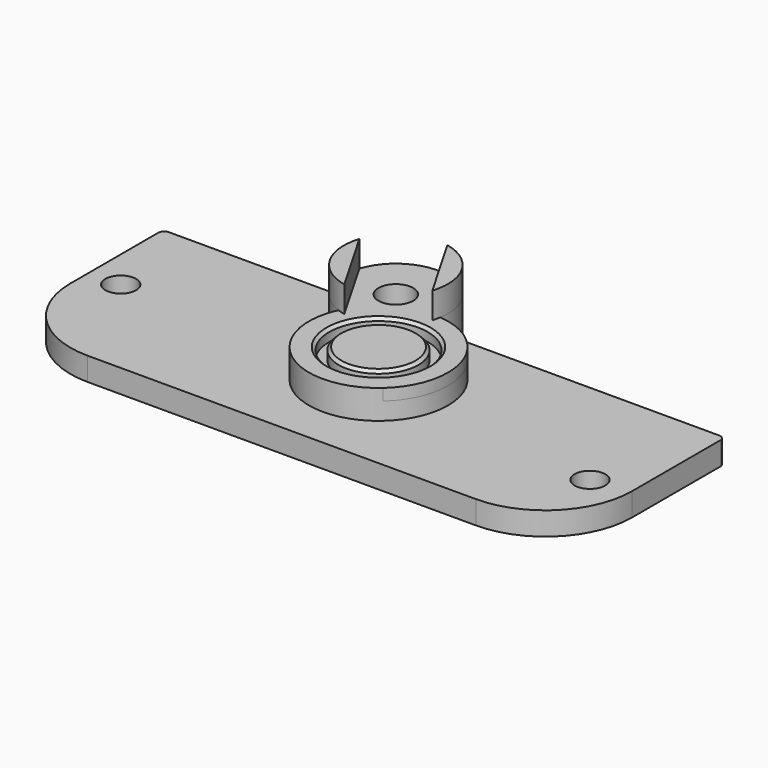
from build123d import *

# Parameters (mm, degrees)
SKETCH_R        = 12
SKETCH_R_2      = 8.5
PAD_DEPTH       = 2
SKETCH001_R     = 8.5
SKETCH001_R_2   = 3
PAD001_DEPTH    = 5
SKETCH002_R     = 8.5
PAD002_DEPTH    = 3
SKETCH003_R     = 6.9
PAD003_DEPTH    = 2
PAD004_DEPTH    = 4.5
SKETCH006_R     = 3
POCKET_DEPTH    = 5
SKETCH005_R     = 2.65
PAD005_DEPTH    = 4
POCKET001_DEPTH = 5
CHAMFER_SIZE    = 0.5
FILLET_R        = 1
FILLET001_R     = 15


with BuildPart() as part:
    # Sketch → Pad (new body)
    with BuildSketch(Plane.XY):
        Circle(SKETCH_R)
        Circle(SKETCH_R_2, mode=Mode.SUBTRACT)
    extrude(amount=PAD_DEPTH)

    # Sketch001 (on Face4 of Pad) → Pad001 (join)
    with BuildSketch(Plane.XY.offset(2)):
        with BuildLine():
            ThreePointArc((1.128054, 11.946861), (-12.25, 21.217622), (-10.910313, 4.996507))
            ThreePointArc((-10.910313, 4.996507), (6, -10.392305), (1.128054, 11.946861))
        make_face()
        Circle(SKETCH001_R, mode=Mode.SUBTRACT)
        with Locations((-7.75, 13.423394)):
            Circle(SKETCH001_R_2, mode=Mode.SUBTRACT)
    extrude(amount=-PAD001_DEPTH)

    # Sketch002 (on Face6 of Pad001) → Pad002 (join)
    with BuildSketch(Plane(origin=(0, 0, -3), x_dir=(1, 0, 0), z_dir=(0, 0, -1))):
        Circle(SKETCH002_R)
    extrude(amount=-PAD002_DEPTH)

    # Sketch003 (on Face11 of Pad002) → Pad003 (join)
    with BuildSketch(Plane.XY):
        Circle(SKETCH003_R)
    extrude(amount=PAD003_DEPTH)

    # Sketch004 (on Face7 of Pad003) → Pad004 (join)
    with BuildSketch(Plane.XY.offset(2)):
        with BuildLine():
            Line((-16.300254, 16.232869), (-9.59205, 4.613919))
            ThreePointArc((-16.300254, 16.232869), (-15.544229, 8.923394), (-9.59205, 4.613919))
        make_face()
        with BuildLine():
            Line((0.800254, 10.613919), (-5.90795, 22.232869))
            ThreePointArc((0.800254, 10.613919), (0.044229, 17.923394), (-5.90795, 22.232869))
        make_face()
    extrude(amount=PAD004_DEPTH)

    # Sketch006 → Pocket (cut)
    with BuildSketch(Plane.XY.offset(-3)):
        with Locations((-7.75, 13.423394)):
            Circle(SKETCH006_R)
    extrude(amount=-POCKET_DEPTH, mode=Mode.SUBTRACT)

    # Sketch005 (on Face19 of Pad004) → Pad005 (join)
    with BuildSketch(Plane.XY.offset(-3)):
        with BuildLine():
            ThreePointArc((0.873288, 16), (-7.75, 22.423394), (-16.373288, 16))
            Line((-16.373288, 16), (-50, 16))
            Line((-50, -19), (-50, 16))
            Line((-50, -19), (47, -19))
            Line((47, -19), (47, 16))
            Line((0.873288, 16), (47, 16))
        make_face()
        with Locations((-44.5, 0)):
            Circle(SKETCH005_R, mode=Mode.SUBTRACT)
        with Locations((40.5, -5)):
            Circle(SKETCH005_R, mode=Mode.SUBTRACT)
    extrude(amount=-PAD005_DEPTH)

    # Sketch008 (on Face24 of Pad005) → Pocket001 (cut)
    with BuildSketch(Plane(origin=(0, 0, -7), x_dir=(1, 0, 0), z_dir=(0, 0, -1))):
        Polygon((-4.75, -8.227241), (-10.75, -8.227241), (-13.75, -13.423394), (-10.75, -18.619546), (-4.75, -18.619546), (-1.75, -13.423394), align=None)
    extrude(amount=-POCKET001_DEPTH, mode=Mode.SUBTRACT)

    # Chamfer
    chamfer_edges = [part.edges().sort_by_distance(p)[0] for p in [
        (-6.9, 0, 2),
        (-8.5, 0, 2),
    ]]
    chamfer(chamfer_edges, length=CHAMFER_SIZE)

    # Fillet
    fillet_edges = [part.edges().sort_by_distance(p)[0] for p in [
        (-50, 16, -5),
        (47, 16, -5),
    ]]
    fillet(fillet_edges, radius=FILLET_R)

    # Fillet001
    fillet001_edges = [part.edges().sort_by_distance(p)[0] for p in [
        (-50, -19, -5),
        (47, -19, -5),
    ]]
    fillet(fillet001_edges, radius=FILLET001_R)


solid = part.part
